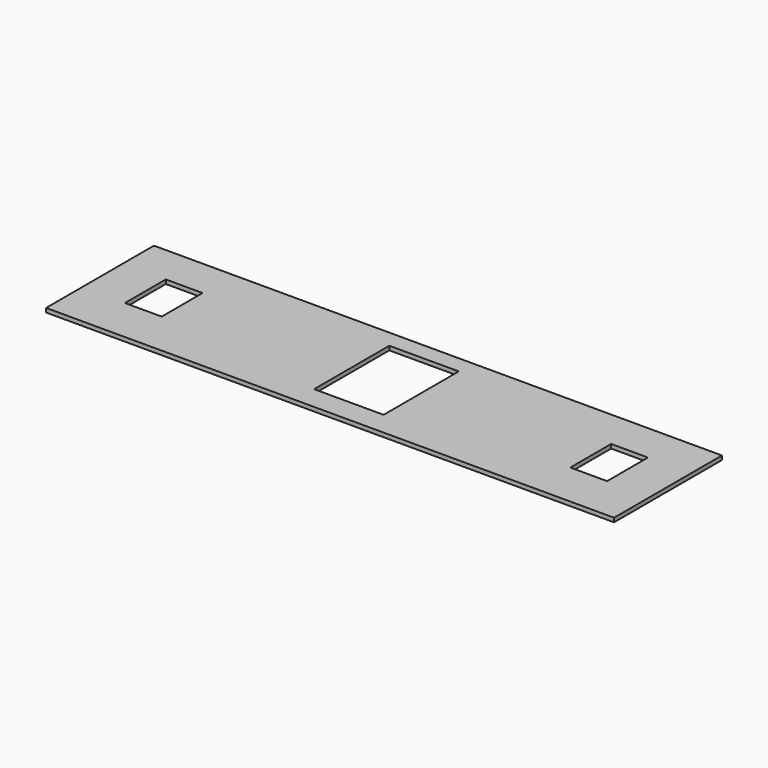
from build123d import *

# Parameters (mm, degrees)
F0_W     = 882.65
F0_H     = 209.55
F0_W_2   = 57.15
F0_H_2   = 79.375
F0_W_3   = 107.95
F0_H_3   = 146.05
F1_DEPTH = 3.175


with BuildPart() as f1:
    # F0 (on Top) → F1 (new body, symmetric)
    with BuildSketch(Plane.XY):
        Rectangle(F0_W, F0_H)
        with Locations((-346.075, 4.7625)):
            Rectangle(F0_W_2, F0_H_2, mode=Mode.SUBTRACT)
        with Locations((0, 4.7625)):
            Rectangle(F0_W_3, F0_H_3, mode=Mode.SUBTRACT)
        with Locations((346.075, 4.7625)):
            Rectangle(F0_W_2, F0_H_2, mode=Mode.SUBTRACT)
    extrude(amount=F1_DEPTH, both=True)


solid = f1.part
